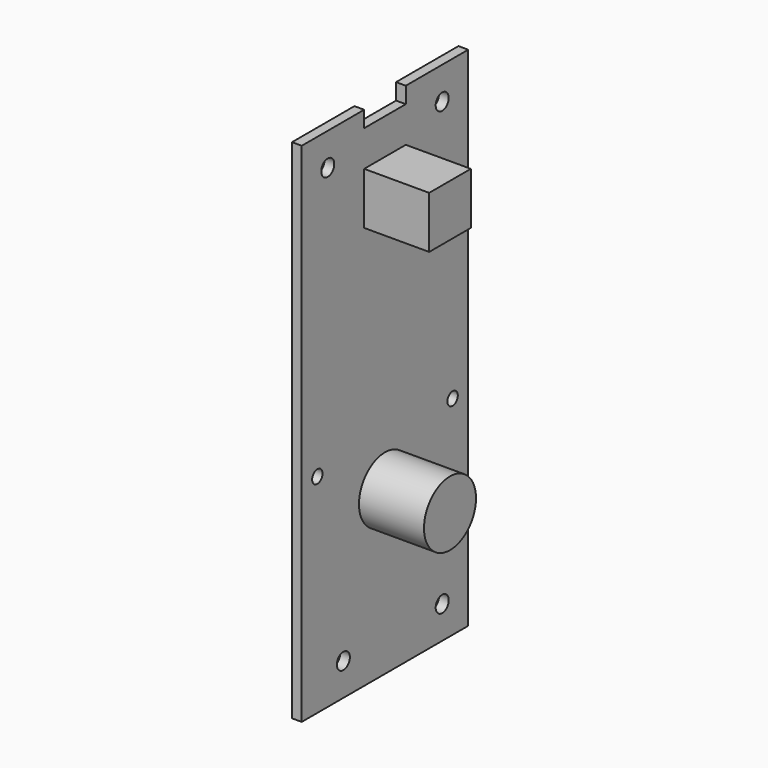
from build123d import *

# Parameters (mm, degrees)
F0_R     = 1
F1_DEPTH = 1.5
F2_R     = 5
F3_DEPTH = 10
F5_DEPTH = 10
F7_D     = 2.5


with BuildPart() as f1:
    # F0 (on Right) → F1 (new body)
    with BuildSketch(Plane.YZ):
        Polygon((0, 78), (0, 0), (32, 0), (32, 78), (20, 78), (20, 75.5), (12, 75.5), (12, 78), align=None)
        with Locations((3, 32)):
            Circle(F0_R, mode=Mode.SUBTRACT)
        with Locations((29, 32)):
            Circle(F0_R, mode=Mode.SUBTRACT)
    extrude(amount=F1_DEPTH)

    # F2 (on face) → F3 (join)
    with BuildSketch(Plane.YZ.offset(1.5)):
        with Locations((16, 25)):
            Circle(F2_R)
    extrude(amount=F3_DEPTH)

    # F4 (on face) → F5 (join)
    with BuildSketch(Plane.YZ.offset(1.5)):
        Polygon((20, 70), (16, 70), (12, 70), (12, 62), (20, 62), align=None)
    extrude(amount=F5_DEPTH)

    # F7 (through all)
    with Locations(Plane.YZ.offset(1.5)):
        with Locations((5, 73), (27, 73), (27, 5), (8, 5)):
            Hole(F7_D / 2)


solid = f1.part
